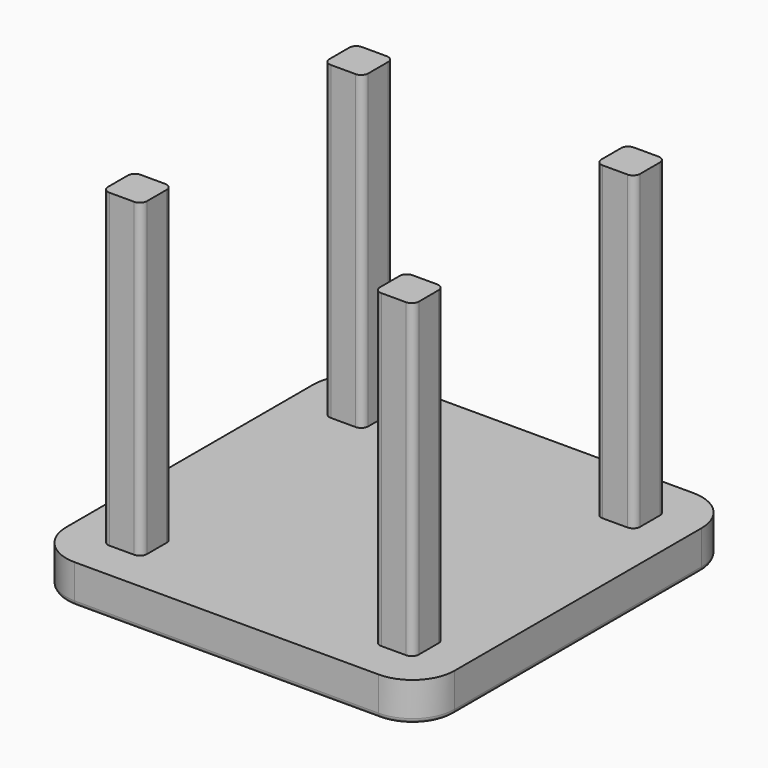
from build123d import *

# Parameters (mm, degrees)
F0_W     = 400
F0_H     = 404.9209267448
F1_DEPTH = 40
F2_R     = 43.4558441227
F3_W     = 40
F3_H     = 40
F4_DEPTH = 360
F5_R     = 7.24
F6_W     = 40
F6_H     = 40
F7_DEPTH = 360
F8_R     = 7.2426406871
F9_R     = 5


with BuildPart() as f1:
    # F0 (on Top) → F1 (new body)
    with BuildSketch(Plane.XY):
        with Locations((65.5444227159, 0)):
            Rectangle(F0_W, F0_H)
    extrude(amount=F1_DEPTH)

    # F2
    f2_edges = [f1.edges().sort_by_distance(p)[0] for p in [
        (-134.455577, -202.460463, 20),
        (-134.455577, 202.460463, 20),
        (265.544423, 202.460463, 20),
        (265.544423, -202.460463, 20),
    ]]
    fillet(f2_edges, radius=F2_R)

    # F3 (on Top) → F4 (join)
    with BuildSketch(Plane.XY):
        with Locations((-74.4555772841, -142.4604633724)):
            Rectangle(F3_W, F3_H)
    extrude(amount=F4_DEPTH)

    # F5
    f5_edges = [f1.edges().sort_by_distance(p)[0] for p in [
        (-54.455577, -162.460463, 200),
        (-54.455577, -122.460463, 200),
        (-94.455577, -122.460463, 200),
        (-94.455577, -162.460463, 200),
    ]]
    fillet(f5_edges, radius=F5_R)

    # F6 (on Top) → F7 (join)
    with BuildSketch(Plane.XY):
        with Locations((205.5444227159, -142.4604633724)):
            Rectangle(F6_W, F6_H)
        with Locations((205.5444227159, 142.4604633724)):
            Rectangle(F6_W, F6_H)
        with Locations((-74.4555772841, 142.4604633724)):
            Rectangle(F6_W, F6_H)
    extrude(amount=F7_DEPTH)

    # F8
    f8_edges = [f1.edges().sort_by_distance(p)[0] for p in [
        (-54.455577, 162.460463, 200),
        (-94.455577, 162.460463, 200),
        (-94.455577, 122.460463, 200),
        (-54.455577, 122.460463, 200),
        (225.544423, 122.460463, 200),
        (225.544423, 162.460463, 200),
        (185.544423, 122.460463, 200),
        (185.544423, 162.460463, 200),
        (225.544423, -162.460463, 200),
        (225.544423, -122.460463, 200),
        (185.544423, -162.460463, 200),
        (185.544423, -122.460463, 200),
    ]]
    fillet(f8_edges, radius=F8_R)

    # F9
    f9_edges = [f1.edges().sort_by_distance(p)[0] for p in [
        (265.544423, 0, 0),
        (252.816501, 189.732541, 0),
        (65.544423, 202.460463, 0),
        (-121.727655, 189.732541, 0),
        (-134.455577, 0, 0),
        (-121.727655, -189.732541, 0),
        (65.544423, -202.460463, 0),
        (252.816501, -189.732541, 0),
    ]]
    fillet(f9_edges, radius=F9_R)


solid = f1.part
